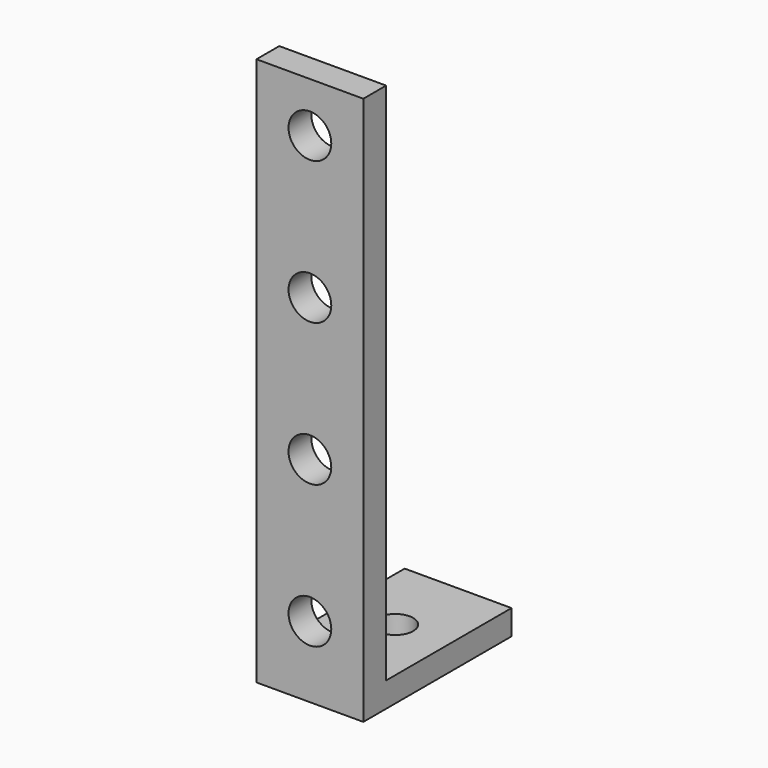
from build123d import *

# Parameters (mm, degrees)
SKETCH_W     = 7.5
SKETCH_H     = 11
SKETCH_R     = 1.25
PAD_DEPTH    = 1.75
SKETCH001_W  = 7.5
SKETCH001_H  = 38.5
SKETCH001_R  = 1.5
PAD001_DEPTH = 2


with BuildPart() as part:
    # Sketch → Pad (new body)
    with BuildSketch(Plane.XY):
        Rectangle(SKETCH_W, SKETCH_H)
        Circle(SKETCH_R, mode=Mode.SUBTRACT)
    extrude(amount=PAD_DEPTH)

    # Sketch001 (on Face3 of Pad) → Pad001 (join)
    with BuildSketch(Plane.XZ.offset(5.5)):
        with Locations((0, 19.25)):
            Rectangle(SKETCH001_W, SKETCH001_H)
        with Locations((0, 5)):
            Circle(SKETCH001_R, mode=Mode.SUBTRACT)
        with Locations((0, 15)):
            Circle(SKETCH001_R, mode=Mode.SUBTRACT)
        with Locations((0, 25)):
            Circle(SKETCH001_R, mode=Mode.SUBTRACT)
        with Locations((0, 35)):
            Circle(SKETCH001_R, mode=Mode.SUBTRACT)
    extrude(amount=PAD001_DEPTH)


solid = part.part
